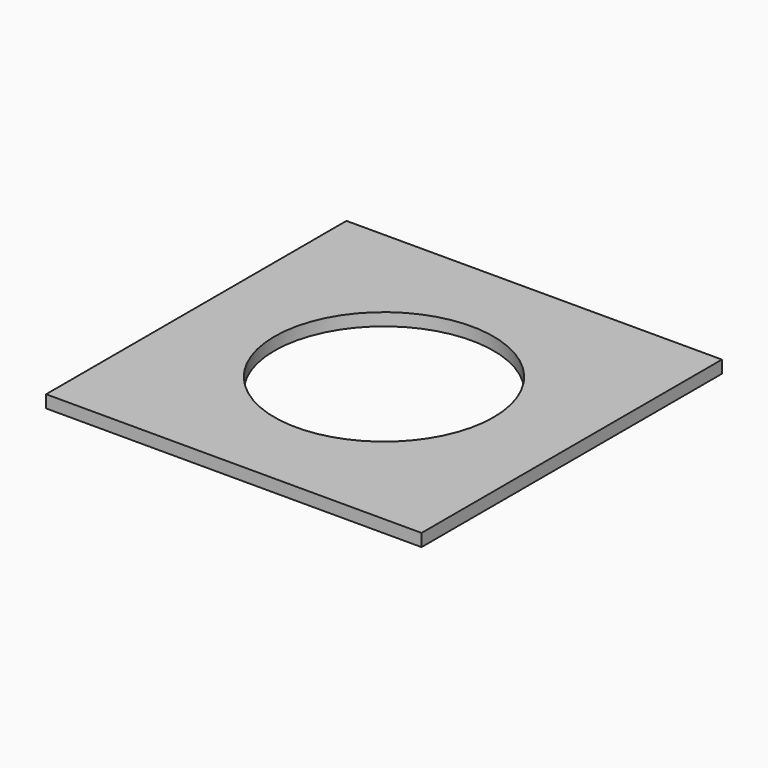
from build123d import *

# Parameters (mm, degrees)
SKETCH004_R  = 1.75
PAD005_DEPTH = 2
SKETCH002_W  = 6
SKETCH002_H  = 6
PAD003_DEPTH = 0.2


with BuildPart() as body004:
    # Sketch004 → Pad005 (new body)
    with BuildSketch(Plane.XY):
        Circle(SKETCH004_R)
    extrude(amount=PAD005_DEPTH)


with BuildPart() as body004_1:
    # Body004 placement: moved
    add(body004.part.moved(Location((0, 0, 7))))


with BuildPart() as cut:
    # Sketch002 → Pad003 (new body)
    with BuildSketch(Plane.XY):
        Rectangle(SKETCH002_W, SKETCH002_H)
    extrude(amount=PAD003_DEPTH)


with BuildPart() as cut_1:
    # Body002 placement: moved
    add(cut.part.moved(Location((0, 0, 7))))

    # Cut: cut Body004
    add(body004_1.part, mode=Mode.SUBTRACT)


solid = cut_1.part
